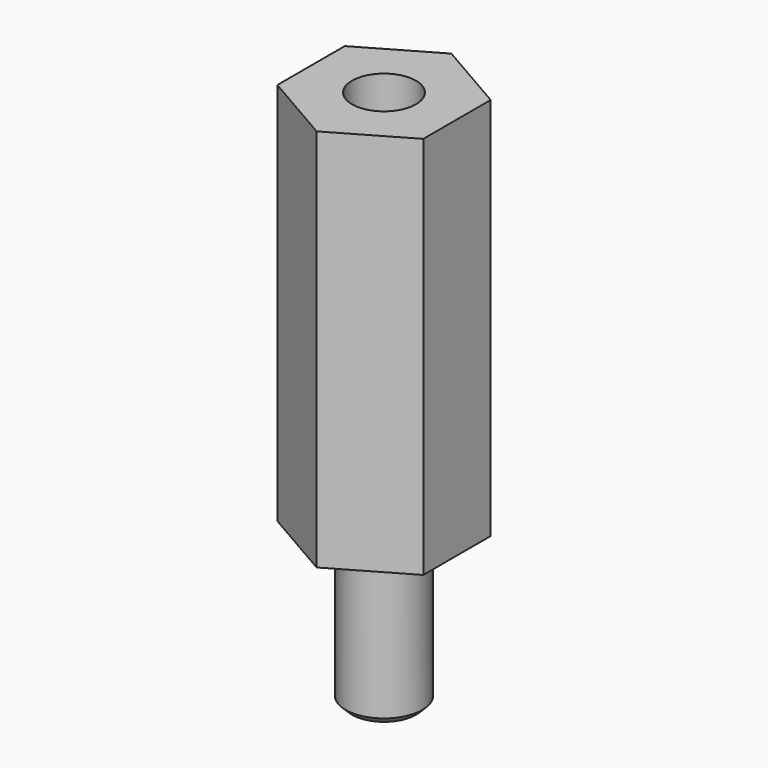
from build123d import *

# Parameters (mm, degrees)
SKETCH_R     = 1.5
PAD_DEPTH    = 6
SKETCH001_R  = 1.25
PAD001_DEPTH = 15
CHAMFER_SIZE = 0.25


with BuildPart() as part:
    # Sketch → Pad (new body)
    with BuildSketch(Plane.XY):
        Circle(SKETCH_R)
    extrude(amount=PAD_DEPTH)

    # Sketch001 (on Face3 of Pad) → Pad001 (join)
    with BuildSketch(Plane.XY.offset(6)):
        Polygon((0, -3.290897), (2.85, -1.645448), (2.85, 1.645448), (0, 3.290897), (-2.85, 1.645448), (-2.85, -1.645448), align=None)
        Circle(SKETCH001_R, mode=Mode.SUBTRACT)
    extrude(amount=PAD001_DEPTH)

    # Chamfer
    chamfer_edges = [part.edges().sort_by_distance(p)[0] for p in [
        (-1.5, 0, 0),
    ]]
    chamfer(chamfer_edges, length=CHAMFER_SIZE)


solid = part.part
